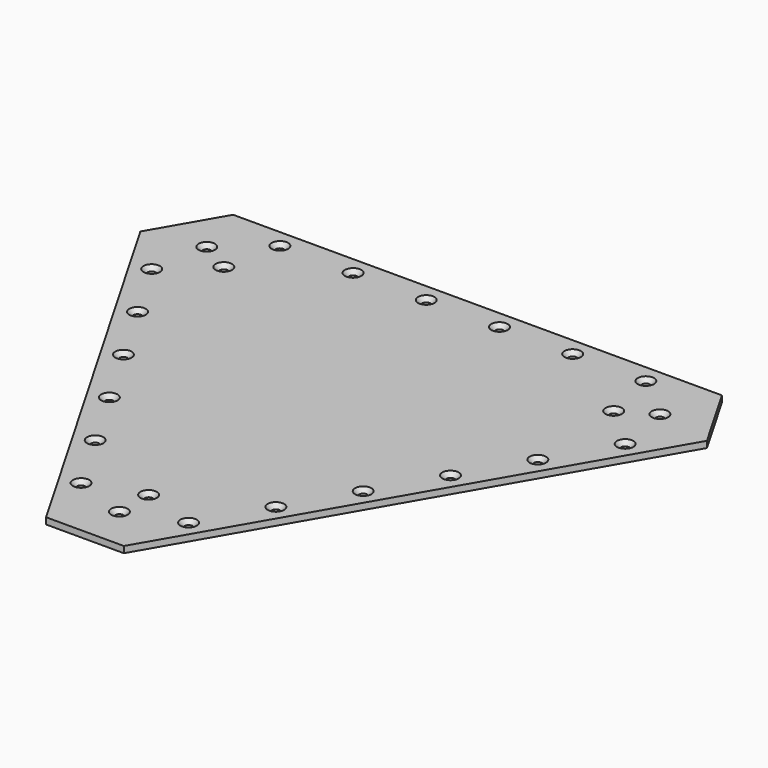
from build123d import *

# Parameters (mm, degrees)
F1_DEPTH       = 7
F3_D           = 8.8
F3_CSINK_D     = 17.92
F3_CSINK_ANGLE = 90
F5_D           = 8.8
F5_CSINK_D     = 17.92
F5_CSINK_ANGLE = 90


with BuildPart() as f1:
    # F0 (on Top) → F1 (new body)
    with BuildSketch(Plane.XY):
        Polygon((-69.6354626519, 47), (-42.5, 0), (42.5, 0), (69.6354626519, 47), (309.6354626519, 462.6921938165), (267.1354626519, 536.3043531382), (-267.1354626519, 536.3043531382), (-309.6354626519, 462.6921938165), align=None)
    extrude(amount=F1_DEPTH)

    # F3 (through all)
    with Locations(Plane.XY.offset(7)):
        with Locations((-247.682268674, 475.9982734774), (247.682268674, 475.9982734774), (0, 47)):
            CounterSinkHole(F3_D / 2, F3_CSINK_D / 2, counter_sink_angle=F3_CSINK_ANGLE)

    # F5 (through all)
    with Locations(Plane.XY.offset(7)):
        with Locations((-200, 516.3043531382), (-120, 516.3043531382), (-40, 516.3043531382), (40, 516.3043531382), (120, 516.3043531382), (200, 516.3043531382), (-258.7472232503, 414.5511776652), (-218.7472232503, 345.2691453624), (-178.7472232503, 275.9871130596), (-138.7472232503, 206.7050807569), (-98.7472232503, 137.4230484541), (-58.7472232503, 68.1410161514), (58.7472232503, 68.1410161514), (98.7472232503, 137.4230484541), (138.7472232503, 206.7050807569), (178.7472232503, 275.9871130596), (218.7472232503, 345.2691453624), (258.7472232503, 414.5511776652), (0, 87), (-213.0412525227, 455.9982734774), (213.0412525227, 455.9982734774)):
            CounterSinkHole(F5_D / 2, F5_CSINK_D / 2, counter_sink_angle=F5_CSINK_ANGLE)


solid = f1.part
